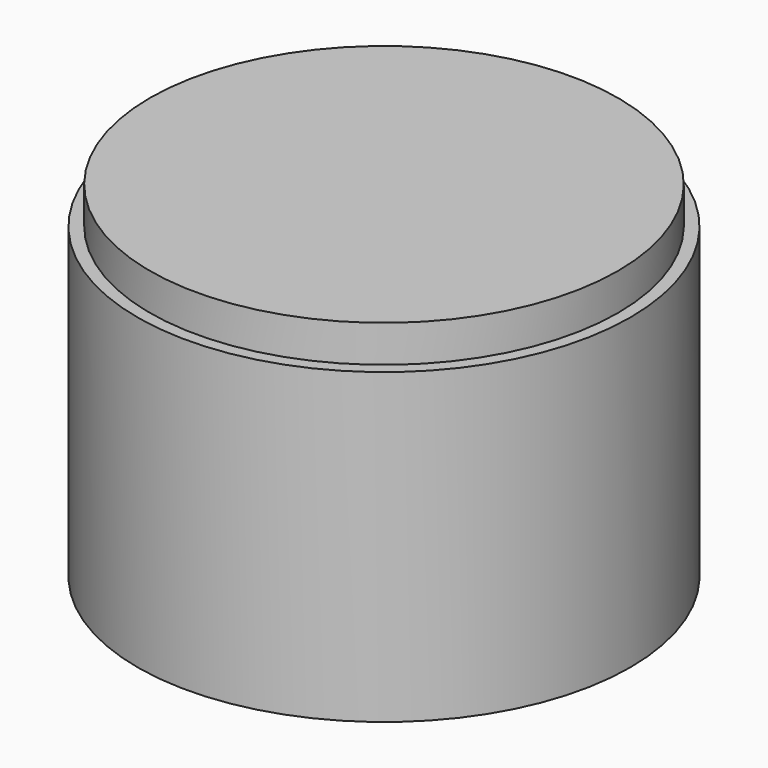
from build123d import *

# Parameters (mm, degrees)
F0_R     = 10
F1_DEPTH = 14
F2_R     = 3
F3_DEPTH = 12
F4_R     = 10
F4_R_2   = 9.5
F5_DEPTH = 1.5


with BuildPart() as f1:
    # F0 (on Top) → F1 (new body)
    with BuildSketch(Plane.XY):
        Circle(F0_R)
    extrude(amount=F1_DEPTH)

    # F2 (on face) → F3 (cut)
    with BuildSketch(Plane(origin=(0, 0, 0), x_dir=(1, 0, 0), z_dir=(0, 0, -1))):
        Circle(F2_R)
    extrude(amount=-F3_DEPTH, mode=Mode.SUBTRACT)

    # F4 (on face) → F5 (cut)
    with BuildSketch(Plane.XY.offset(14)):
        Circle(F4_R)
        Circle(F4_R_2, mode=Mode.SUBTRACT)
    extrude(amount=-F5_DEPTH, mode=Mode.SUBTRACT)


solid = f1.part
